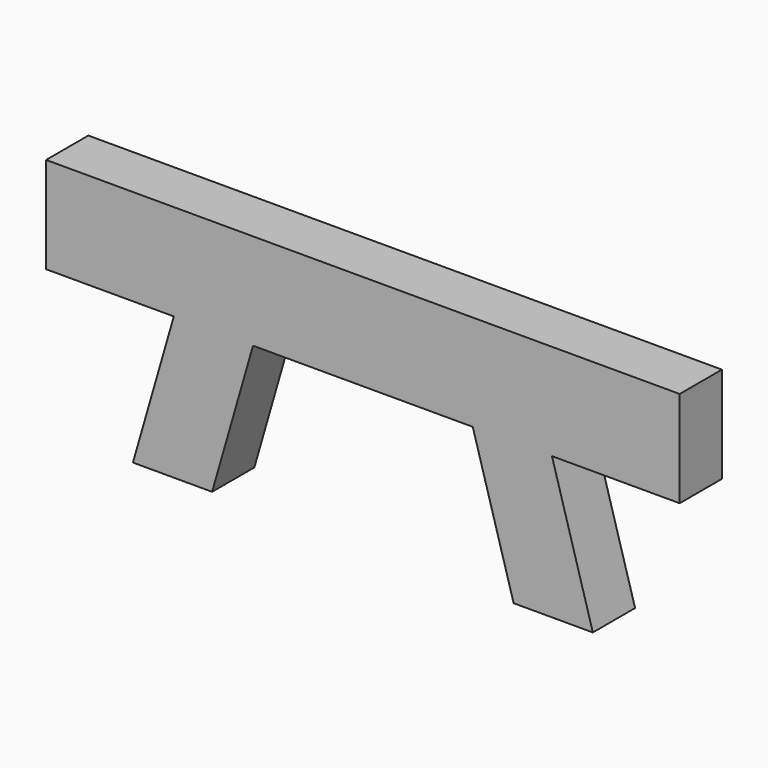
from build123d import *

# Parameters (mm, degrees)
F1_DEPTH = 25.4
F2_DEPTH = 25.4


with BuildPart() as f1:
    # F0 (on Front) → F1 (new body)
    with BuildSketch(Plane.XZ):
        Polygon((152.4, -23.147755), (152.4, 23.147755), (-152.4, 23.147755), (-152.4, -23.147755), (-90.959854, -23.147755), (-52.855045, -23.147755), (52.855045, -23.147755), (90.959854, -23.147755), align=None)
    extrude(amount=F1_DEPTH)

    # F0 (on Front) → F2 (join)
    with BuildSketch(Plane.XZ):
        Polygon((110.626854, -91.442767), (90.959854, -23.147755), (52.855045, -23.147755), (72.522044, -91.442767), align=None)
        Polygon((-52.855045, -23.147755), (-90.959854, -23.147755), (-110.626854, -91.442767), (-72.522044, -91.442767), align=None)
    extrude(amount=F2_DEPTH)


solid = f1.part
